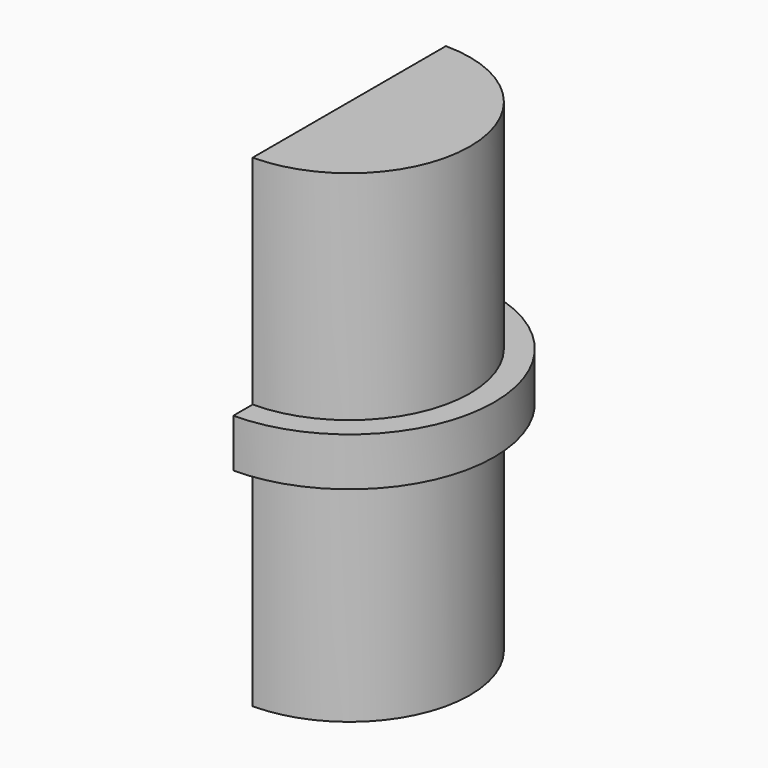
from build123d import *

# Parameters (mm, degrees)
F0_W     = 2
F0_H     = 2
F1_ANGLE = 180


with BuildPart() as f1:
    # F0 (on Front) → F1 (revolve, symmetric)
    with BuildSketch(Plane.XZ) as f1_sk:
        Polygon((0, 20), (0, 0), (0, -20), (10, -20), (10, -2), (10, 0), (10, 2), (10, 20), align=None)
        with Locations((11, -1)):
            Rectangle(F0_W, F0_H)
        with Locations((11, 1)):
            Rectangle(F0_W, F0_H)
    revolve(axis=Axis((0, 0, 10), (0, 0, 1)), revolution_arc=F1_ANGLE / 2)
    revolve(f1_sk.sketch, axis=Axis((0, 0, 10), (0, 0, -1)), revolution_arc=F1_ANGLE / 2)


solid = f1.part
